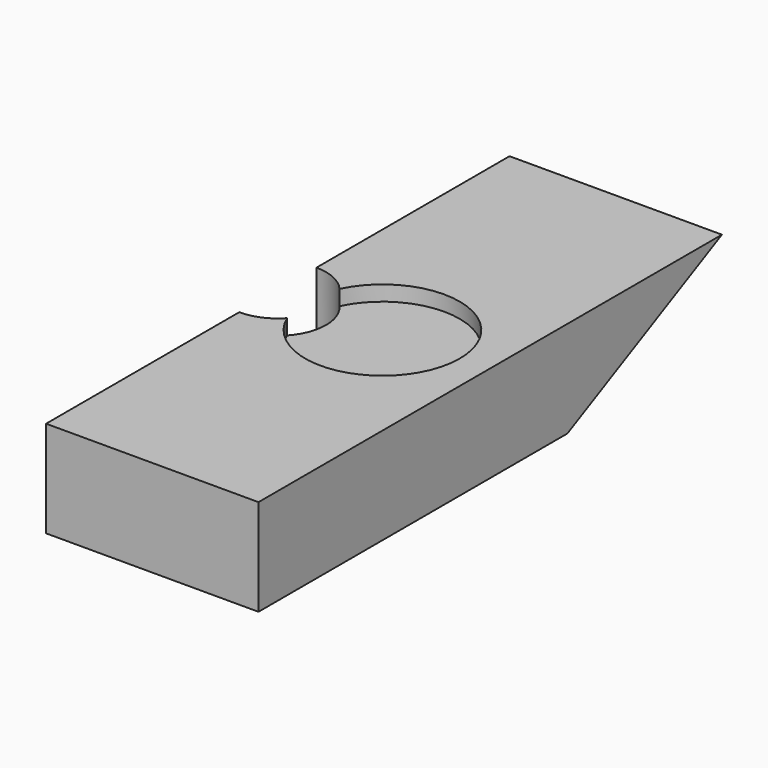
from build123d import *

# Parameters (mm, degrees)
F1_DEPTH = 27.94
F2_R     = 10.16
F3_DEPTH = 2
F5_DEPTH = 25.4


with BuildPart() as f1:
    # F0 (on Right) → F1 (new body)
    with BuildSketch(Plane.YZ):
        Polygon((0, 12.7), (0, 0), (50.8, 0), (76.2, 12.7), align=None)
    extrude(amount=F1_DEPTH)

    # F2 (on face) → F3 (cut)
    with BuildSketch(Plane.XY.offset(12.7)):
        with Locations((13.97, 37.846)):
            Circle(F2_R)
    extrude(amount=-F3_DEPTH, mode=Mode.SUBTRACT)

    # F4 (on Top) → F5 (cut)
    with BuildSketch(Plane.XY):
        with BuildLine():
            ThreePointArc((0, 44.45), (-6.35, 38.1), (0, 31.75))
            Line((0, 31.75), (0, 38.1))
            Line((0, 38.1), (0, 44.45))
        make_face()
        with BuildLine():
            Line((0, 38.1), (0, 31.75))
            ThreePointArc((0, 31.75), (4.490128, 33.609872), (6.35, 38.1))
            Line((6.35, 38.1), (0, 38.1))
        make_face()
        with BuildLine():
            Line((0, 44.45), (0, 38.1))
            Line((0, 38.1), (6.35, 38.1))
            ThreePointArc((6.35, 38.1), (4.490128, 42.590128), (0, 44.45))
        make_face()
    extrude(amount=F5_DEPTH, mode=Mode.SUBTRACT)


solid = f1.part
